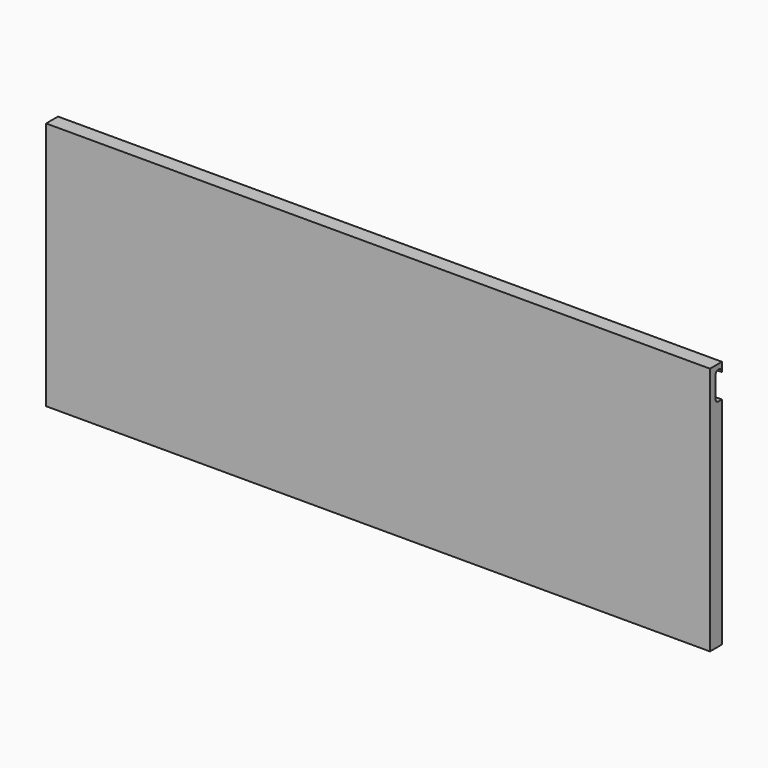
from build123d import *

# Parameters (mm, degrees)
F1_DEPTH = 18
F3_DEPTH = 906


with BuildPart() as f1:
    # F0 (on Front) → F1 (new body)
    with BuildSketch(Plane.XZ):
        Polygon((53.285725, 131.374608), (-303.714275, 131.374608), (-303.714275, -87.914374), (-303.714275, -150.625392), (460.285725, -150.625392), (460.285725, 131.374608), align=None)
        Polygon((-303.714275, -87.914374), (-303.714275, 131.374608), (53.285725, 131.374608), (460.285725, 131.374608), (460.285725, -150.625392), (478.285725, -150.625392), (478.285725, 149.374608), (-321.714275, 149.374608), (-321.714275, -150.625392), (-303.714275, -150.625392), align=None)
    extrude(amount=-F1_DEPTH)

    # F2 (on face) → F3 (cut)
    with BuildSketch(Plane.YZ.offset(478.285725)):
        with BuildLine():
            Line((13, 109.374608), (18, 109.374608))
            Line((18, 109.374608), (18, 138.374608))
            ThreePointArc((18, 138.374608), (13, 143.374608), (8, 138.374608))
            Line((8, 138.374608), (8, 114.374608))
            ThreePointArc((8, 114.374608), (9.464466, 110.839074), (13, 109.374608))
        make_face()
    extrude(amount=-F3_DEPTH, mode=Mode.SUBTRACT)


solid = f1.part
